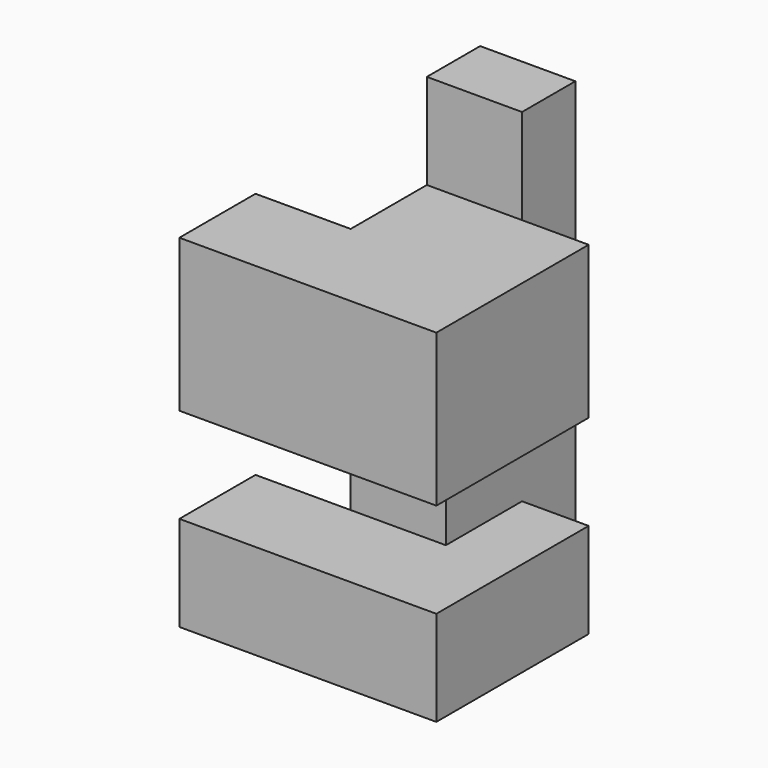
from build123d import *

# Parameters (mm, degrees)
F0_W     = 25.4
F0_H     = 25.4
F1_DEPTH = 17.78
F0_H_2   = 91.44
F2_DEPTH = 68.58
F3_W     = 50.8
F3_H     = 25.4
F3_H_2   = 40.64
F4_DEPTH = 17.78
F5_W     = 25.4
F5_H     = 25.4
F6_DEPTH = 25.4
F7_W     = 25.4
F7_H     = 25.4
F7_H_2   = 40.64
F8_DEPTH = 25.4


with BuildPart() as f1:
    # F0 (on Front) → F1 (new body)
    with BuildSketch(Plane.XZ):
        with Locations((45.547863, 42.605166)):
            Rectangle(F0_W, F0_H)
    extrude(amount=F1_DEPTH)

    # F0 (on Front) → F2 (join)
    with BuildSketch(Plane.XZ):
        with Locations((45.547863, -15.814834)):
            Rectangle(F0_W, F0_H_2)
    extrude(amount=F2_DEPTH)

    # F3 (on face) → F4 (join)
    with BuildSketch(Plane.YZ.offset(58.247863)):
        with Locations((-43.18, -48.834834)):
            Rectangle(F3_W, F3_H)
        with Locations((-43.18, 9.585166)):
            Rectangle(F3_W, F3_H_2)
    extrude(amount=F4_DEPTH)

    # F5 (on face) → F6 (cut)
    with BuildSketch(Plane.XZ.offset(68.58)):
        with Locations((45.547863, -23.434834)):
            Rectangle(F5_W, F5_H)
    extrude(amount=-F6_DEPTH, mode=Mode.SUBTRACT)

    # F7 (on face) → F8 (join)
    with BuildSketch(Plane(origin=(32.847863, 0, 0), x_dir=(0, -1, 0), z_dir=(-1, 0, 0))):
        with Locations((55.88, -48.834834)):
            Rectangle(F7_W, F7_H)
        with Locations((55.88, 9.585166)):
            Rectangle(F7_W, F7_H_2)
    extrude(amount=F8_DEPTH)


solid = f1.part
